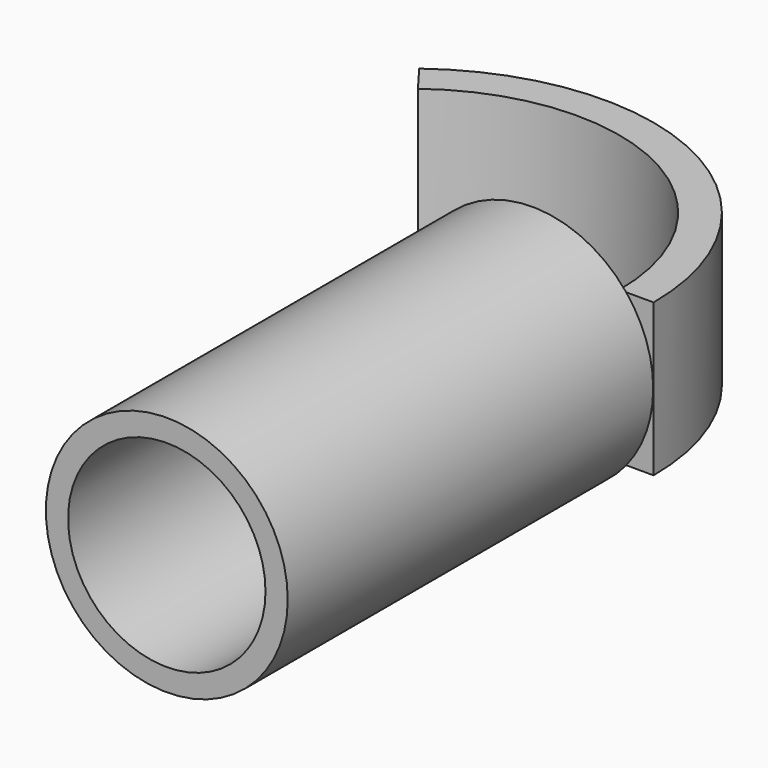
from build123d import *

# Parameters (mm, degrees)
F0_R          = 40.346268
F0_R_2        = 32.928679
F1_DEPTH      = 152.4
F3_DEPTH      = 25.4
F3_DEPTH_BACK = 25.4


with BuildPart() as f1:
    # F0 (on Front) → F1 (new body)
    with BuildSketch(Plane.XZ):
        Circle(F0_R)
        Circle(F0_R_2, mode=Mode.SUBTRACT)
    extrude(amount=F1_DEPTH)

    # F2 (on Top) → F3 (join, two sides)
    with BuildSketch(Plane.XY) as f3_sk:
        with BuildLine():
            Line((29.093668, 0), (40.480102, 0))
            ThreePointArc((40.480102, 0), (-4.495336, 72.679497), (-89.606657, 64.858865))
            Line((-89.606657, 64.858865), (-82.75413, 55.765255))
            ThreePointArc((-82.75413, 55.765255), (-9.575937, 62.489387), (29.093668, 0))
        make_face()
    extrude(amount=F3_DEPTH)
    extrude(f3_sk.sketch, amount=-F3_DEPTH_BACK)


solid = f1.part
